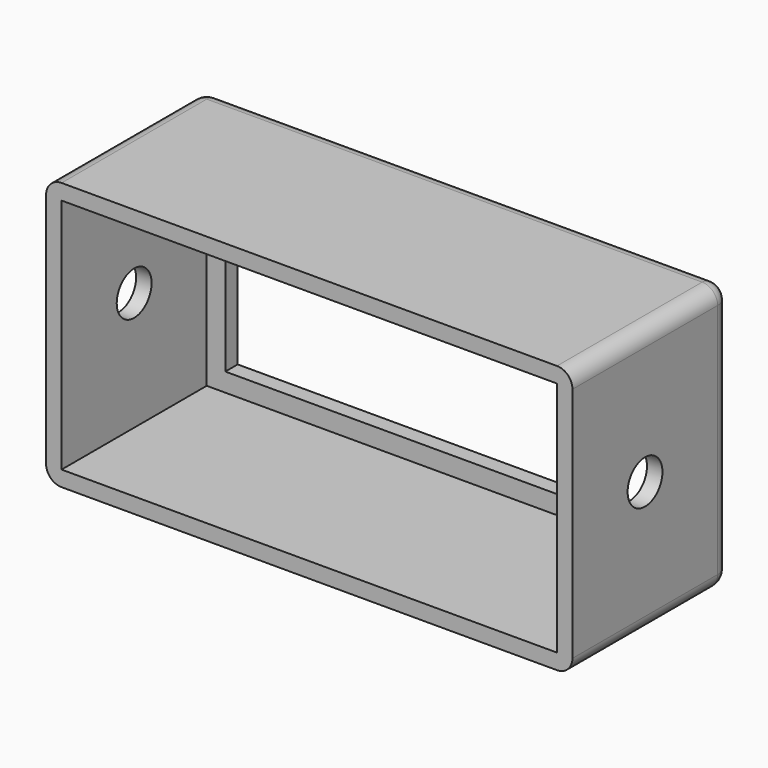
from build123d import *

# Parameters (mm, degrees)
F0_W     = 43.18
F0_H     = 21.971
F0_W_2   = 40.64
F0_H_2   = 19.431
F1_DEPTH = 16.1544
F0_W_3   = 37.592
F0_H_3   = 16.383
F2_DEPTH = 1.27
F3_R     = 1.27
F4_R     = 1.27
F5_R     = 1.785938
F6_DEPTH = 7.62
F7_R     = 1.785938
F8_DEPTH = 7.62


with BuildPart() as f1:
    # F0 (on Front) → F1 (new body)
    with BuildSketch(Plane.XZ):
        Rectangle(F0_W, F0_H)
        Rectangle(F0_W_2, F0_H_2, mode=Mode.SUBTRACT)
    extrude(amount=F1_DEPTH)

    # F0 (on Front) → F2 (join)
    with BuildSketch(Plane.XZ):
        Rectangle(F0_W_2, F0_H_2)
        Rectangle(F0_W_3, F0_H_3, mode=Mode.SUBTRACT)
    extrude(amount=F2_DEPTH)

    # F3
    f3_edges = [f1.edges().sort_by_distance(p)[0] for p in [
        (-21.59, -8.0772, 10.9855),
        (-21.59, -8.0772, -10.9855),
        (21.59, -8.0772, -10.9855),
        (21.59, -8.0772, 10.9855),
    ]]
    fillet(f3_edges, radius=F3_R)

    # F4
    f4_edges = [f1.edges().sort_by_distance(p)[0] for p in [
        (0, 0, -10.9855),
    ]]
    fillet(f4_edges, radius=F4_R)

    # F5 (on face) → F6 (cut)
    with BuildSketch(Plane.YZ.offset(21.59)):
        with Locations((-8.7122, 0)):
            Circle(F5_R)
    extrude(amount=-F6_DEPTH, mode=Mode.SUBTRACT)

    # F7 (on face) → F8 (cut)
    with BuildSketch(Plane(origin=(-21.59, 0, 0), x_dir=(0, -1, 0), z_dir=(-1, 0, 0))):
        with Locations((8.7122, 0)):
            Circle(F7_R)
    extrude(amount=-F8_DEPTH, mode=Mode.SUBTRACT)


solid = f1.part
